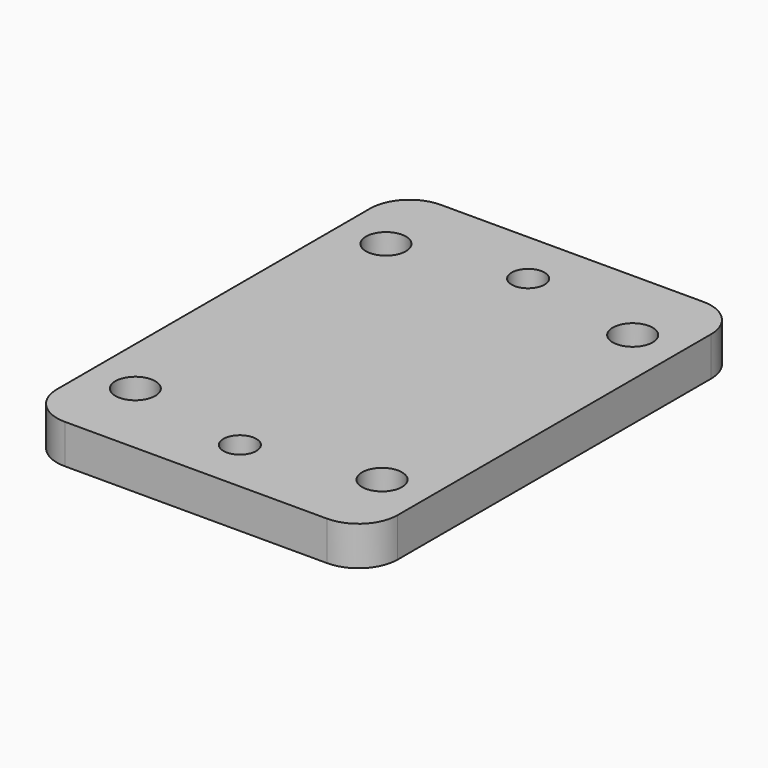
from build123d import *

# Parameters (mm, degrees)
F0_R     = 2.55
F0_R_2   = 2.1
F1_DEPTH = 5


with BuildPart() as f1:
    # F0 (on Top) → F1 (new body)
    with BuildSketch(Plane.XY):
        with BuildLine():
            Line((-16.75, -30), (16.75, -30))
            ThreePointArc((16.75, -30), (20.285534, -28.535534), (21.75, -25))
            Line((21.75, -25), (21.75, 25))
            ThreePointArc((21.75, 25), (20.285534, 28.535534), (16.75, 30))
            Line((16.75, 30), (-16.75, 30))
            ThreePointArc((-16.75, 30), (-20.285534, 28.535534), (-21.75, 25))
            Line((-21.75, 25), (-21.75, -25))
            ThreePointArc((-21.75, -25), (-20.285534, -28.535534), (-16.75, -30))
        make_face()
        with Locations((-15.75, -20)):
            Circle(F0_R, mode=Mode.SUBTRACT)
        with Locations((0, -23)):
            Circle(F0_R_2, mode=Mode.SUBTRACT)
        with Locations((15.75, -20)):
            Circle(F0_R, mode=Mode.SUBTRACT)
        with Locations((-15.75, 20)):
            Circle(F0_R, mode=Mode.SUBTRACT)
        with Locations((0, 23)):
            Circle(F0_R_2, mode=Mode.SUBTRACT)
        with Locations((15.75, 20)):
            Circle(F0_R, mode=Mode.SUBTRACT)
    extrude(amount=F1_DEPTH)


solid = f1.part
